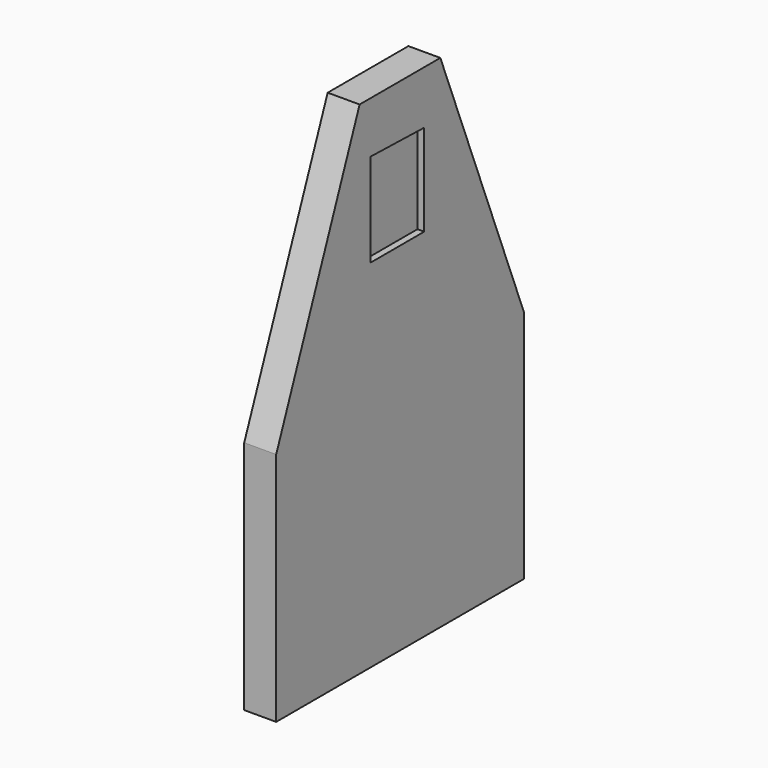
from build123d import *

# Parameters (mm, degrees)
F1_DEPTH = 19
F3_DEPTH = 4


with BuildPart() as f1:
    # F0 (on Right) → F1 (new body)
    with BuildSketch(Plane.YZ):
        Polygon((6.931424, 163.453436), (-53.068576, 163.453436), (-115.068576, 5.453436), (-115.068576, -134.546564), (68.931424, -134.546564), (68.931424, 5.453436), align=None)
    extrude(amount=F1_DEPTH)

    # F2 (on face) → F3 (cut)
    with BuildSketch(Plane.YZ.offset(19)):
        Polygon((-5.074208, 131.790936), (-45.087915, 132.872388), (-45.087915, 77.357873), (-5.074208, 77.357873), align=None)
    extrude(amount=-F3_DEPTH, mode=Mode.SUBTRACT)


solid = f1.part
